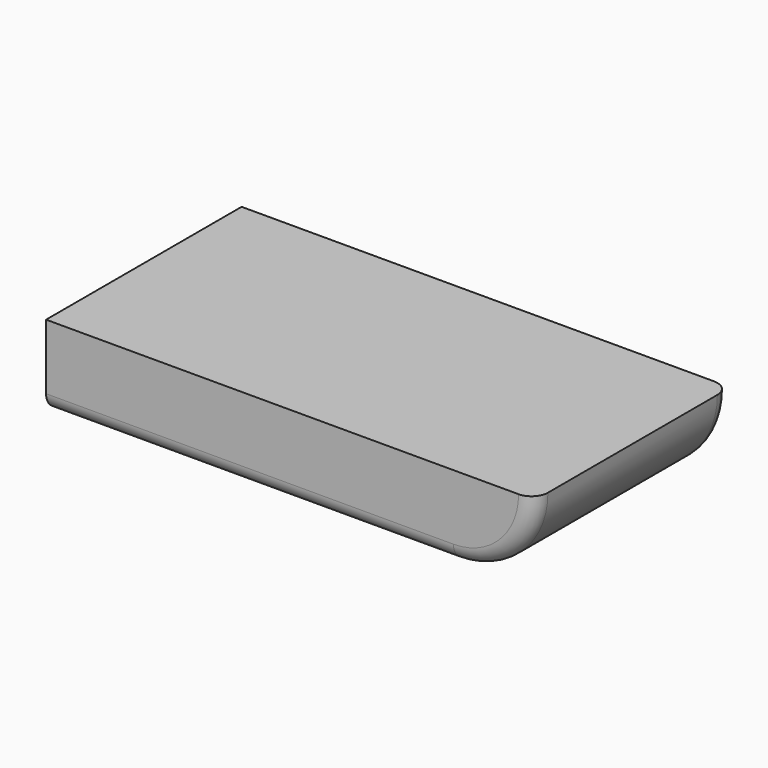
from build123d import *

# Parameters (mm, degrees)
F0_W     = 127
F0_H     = 25.4
F1_DEPTH = 76.2
F2_R     = 5.08


with BuildPart() as f1:
    # F0 (on Front) → F1 (new body)
    with BuildSketch(Plane.XZ):
        Rectangle(F0_W, F0_H)
        with BuildLine():
            Line((88.9, 12.7), (63.5, 12.7))
            Line((63.5, 12.7), (63.5, -12.7))
            ThreePointArc((63.5, -12.7), (81.460512, -5.260512), (88.9, 12.7))
        make_face()
    extrude(amount=F1_DEPTH)

    # F2
    f2_edges = [f1.edges().sort_by_distance(p)[0] for p in [
        (0, -76.2, -12.7),
        (0, 0, -12.7),
    ]]
    fillet(f2_edges, radius=F2_R)


solid = f1.part
